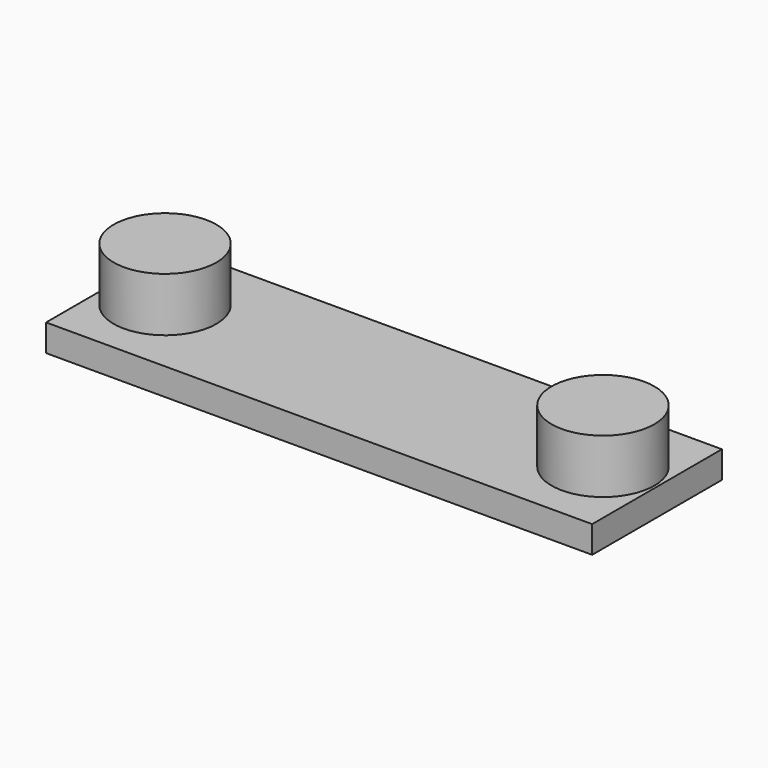
from build123d import *

# Parameters (mm, degrees)
F0_W     = 128.27
F0_H     = 38.1
F1_DEPTH = 6.35
F2_R     = 12.065
F3_DEPTH = 12.7


with BuildPart() as f1:
    # F0 (on Top) → F1 (new body)
    with BuildSketch(Plane.XY):
        Rectangle(F0_W, F0_H)
    extrude(amount=F1_DEPTH)


with BuildPart() as f3:
    # F2 (on face) → F3 (new body)
    with BuildSketch(Plane.XY.offset(6.35)):
        with Locations((-51.435, 0)):
            Circle(F2_R)
        with Locations((51.435, 0)):
            Circle(F2_R)
    extrude(amount=F3_DEPTH)


solid = Compound([f1.part, f3.part])
